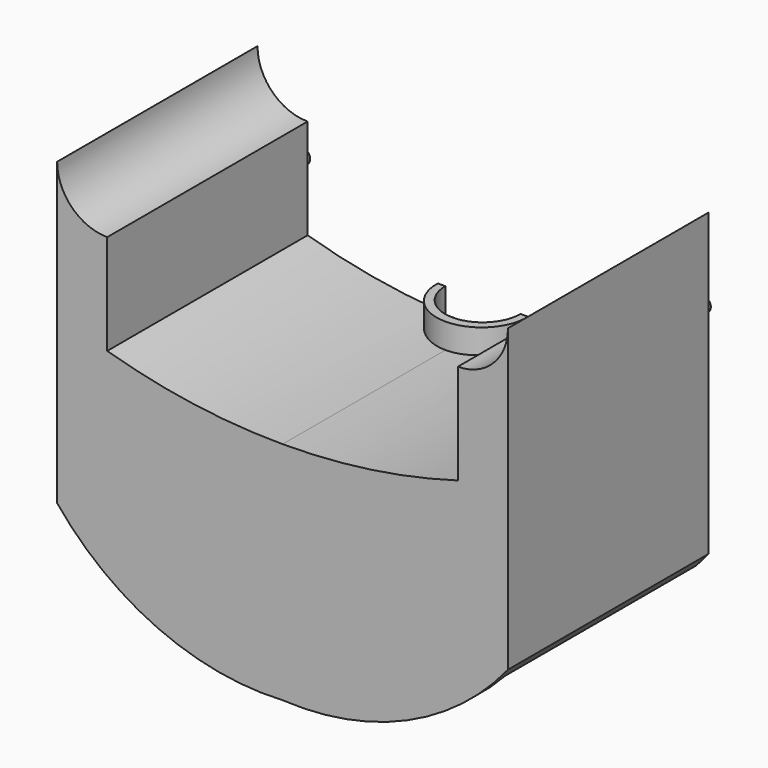
from build123d import *

# Parameters (mm, degrees)
F1_DEPTH  = 50
F2_T      = -2.5
F3_W      = 5
F3_H      = 6
F3_W_2    = 3
F3_W_3    = 6
F4_DEPTH  = 50
F5_R      = 1.5
F6_DEPTH  = 5
F8_DEPTH  = 5
F10_DEPTH = 6


with BuildPart() as f1:
    # F0 (on Front) → F1 (new body)
    with BuildSketch(Plane.XZ):
        with BuildLine():
            ThreePointArc((0, -45), (24.9125199529, -40.428169894), (45, -25))
            Line((45, -25), (0, -25))
            Line((0, -25), (0, -45))
        make_face()
        with BuildLine():
            Line((0, -25), (45, -25))
            Line((45, -25), (45, 25))
            Line((45, 25), (35, 25))
            Line((35, 25), (35, 5))
            ThreePointArc((35, 5), (17.6776695297, 1.2563132924), (0, 0))
            Line((0, 0), (0, -25))
        make_face()
        with BuildLine():
            Line((0, -45), (0, -25))
            Line((0, -25), (-45, -25))
            ThreePointArc((-45, -25), (-24.9125199529, -40.428169894), (0, -45))
        make_face()
        with BuildLine():
            Line((-45, -25), (0, -25))
            Line((0, -25), (0, 0))
            ThreePointArc((0, 0), (-17.6776695297, 1.2563132924), (-35, 5))
            Line((-35, 5), (-35, 25))
            Line((-35, 25), (-45, 25))
            Line((-45, 25), (-45, -25))
        make_face()
        with BuildLine():
            Line((35, 25), (45, 25))
            Line((45, 25), (45, 35))
            ThreePointArc((45, 35), (42.0710678119, 27.9289321881), (35, 25))
        make_face()
        with BuildLine():
            Line((-45, 35), (-45, 25))
            Line((-45, 25), (-35, 25))
            ThreePointArc((-35, 25), (-42.0710678119, 27.9289321881), (-45, 35))
        make_face()
    extrude(amount=F1_DEPTH)

    # F2
    f2_openings = [f1.faces().sort_by_distance(p)[0] for p in [
        (-24.91252, -25, -40.42817),
        (24.91252, -25, -40.42817),
        (0, 0, -15.155819),
    ]]
    offset(amount=F2_T, openings=f2_openings, kind=Kind.INTERSECTION)

    # F3 (on Front) → F4 (join)
    with BuildSketch(Plane.XZ):
        with Locations((-40, 15.2549841851)):
            Rectangle(F3_W, F3_H)
        with Locations((40, 15.2549841851)):
            Rectangle(F3_W, F3_H)
        with Locations((1.5, -3)):
            Rectangle(F3_W_2, F3_H)
        with Locations((-1.5, -3)):
            Rectangle(F3_W_2, F3_H)
        Polygon((-42.5, -9.7450158149), (-42.5, -12.7450158149), (-42.5, -15.7450158149), (-36.5, -15.7450158149), (-36.5, -9.7450158149), align=None)
        with Locations((39.5, -12.7450158149)):
            Rectangle(F3_W_3, F3_H)
    extrude(amount=F4_DEPTH)

    # F5 (on face) → F6 (join)
    with BuildSketch(Plane.XZ):
        with Locations((-40, 15.2549841851)):
            Circle(F5_R)
        with Locations((-39.5, -12.7450158149)):
            Circle(F5_R)
        with Locations((40, 15.2549841851)):
            Circle(F5_R)
        with Locations((39.5, -12.7450158149)):
            Circle(F5_R)
        with Locations((0, -3)):
            Circle(F5_R)
    extrude(amount=-F6_DEPTH)

    # F7 (on Top) → F8 (join)
    with BuildSketch(Plane.XY):
        with BuildLine():
            Line((9, 0), (-9, 0))
            ThreePointArc((-9, 0), (0, -9.3268755147), (9, 0))
        make_face()
    extrude(amount=F8_DEPTH)

    # F9 (on Top) → F10 (cut)
    with BuildSketch(Plane.XY):
        with BuildLine():
            Line((7.5, 0), (-7.5, 0))
            ThreePointArc((-7.5, 0), (0, -7.5508031077), (7.5, 0))
        make_face()
    extrude(amount=F10_DEPTH, mode=Mode.SUBTRACT)


solid = f1.part
